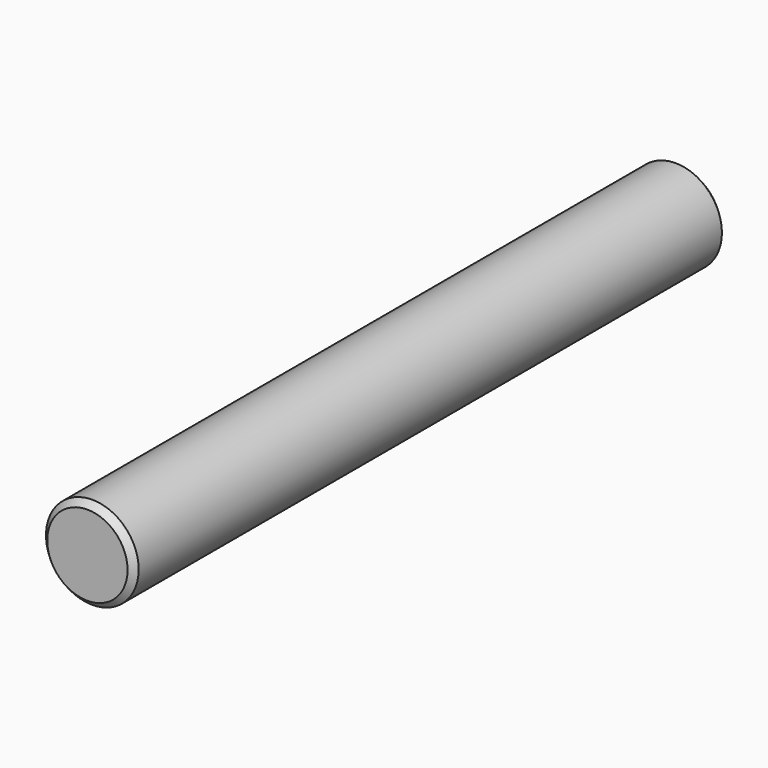
from build123d import *

# Parameters (mm, degrees)
F0_R     = 9.525
F1_DEPTH = 152.4
F2_SIZE2 = 1.27
F2_SIZE  = 1.27
F3_SIZE2 = 1.27
F3_SIZE  = 1.27


with BuildPart() as f1:
    # F0 (on Front) → F1 (new body)
    with BuildSketch(Plane.XZ):
        Circle(F0_R)
    extrude(amount=F1_DEPTH)

    # F2
    f2_edges = [f1.edges().sort_by_distance(p)[0] for p in [
        (-9.525, 0, 0),
    ]]
    chamfer(f2_edges, length=F2_SIZE, length2=F2_SIZE2)

    # F3
    f3_edges = [f1.edges().sort_by_distance(p)[0] for p in [
        (-9.525, -152.4, 0),
    ]]
    chamfer(f3_edges, length=F3_SIZE, length2=F3_SIZE2)


solid = f1.part
